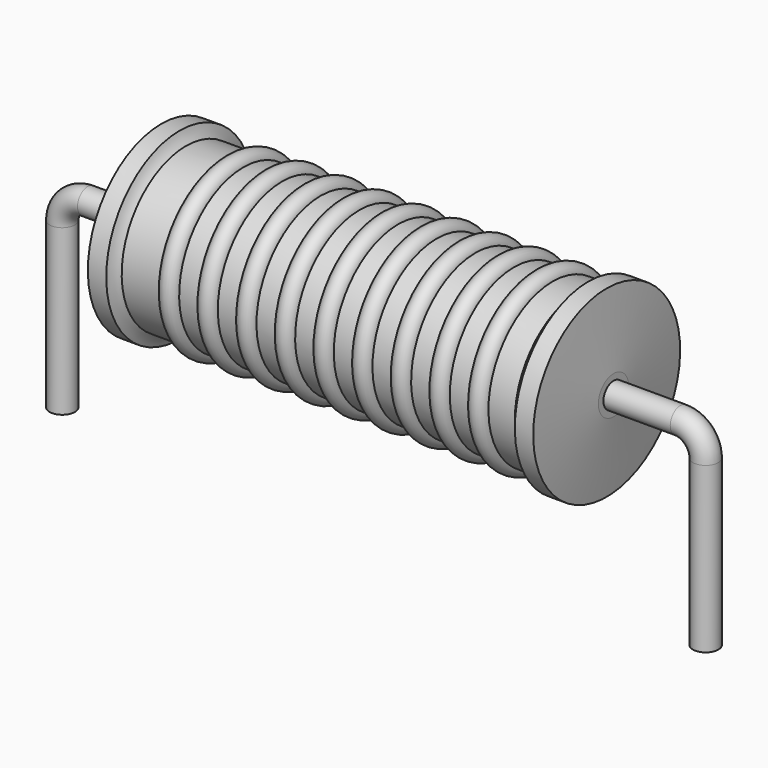
from build123d import *

# Parameters (mm, degrees)
SKETCH_R = 0.4


with BuildPart() as sweep_body:
    # Sweep: sweep along a path in Sketch001
    with BuildLine(Plane.XZ) as sweep_path:
        Line((0, -3), (0, 2.2))
        ThreePointArc((0, 2.2), (0.23431, 2.765681), (0.799987, 3))
        Line((0.799987, 3), (19.52, 3))
        ThreePointArc((19.52, 3), (20.085685, 2.765685), (20.32, 2.2))
        Line((20.32, 2.2), (20.32, -3))
    # Sketch → Sweep (sweep)
    with BuildSketch(Plane.XY.offset(-2)):
        Circle(SKETCH_R)
    sweep(path=sweep_path.line)


with BuildPart() as revolution:
    # Sketch002 → Revolution (revolve)
    with BuildSketch(Plane.XZ):
        with BuildLine():
            Line((3.1275, 5.9), (3.7075, 5.9))
            ThreePointArc((3.7075, 5.9), (3.786801, 5.70799), (3.9055, 5.5375))
            Line((3.9055, 5.5375), (16.3225, 5.5375))
            ThreePointArc((16.3225, 5.5375), (16.48618, 5.703806), (16.6125, 5.9))
            Line((16.6125, 5.9), (17.1925, 5.9))
            ThreePointArc((17.41, 3.6), (17.303281, 4.750192), (17.1925, 5.9))
            Line((17.41, 3), (17.41, 3.6))
            Line((2.91, 3), (17.41, 3))
            Line((2.91, 3), (2.91, 3.6))
            ThreePointArc((3.1275, 5.9), (3.016719, 4.750192), (2.91, 3.6))
        make_face()
    revolve(axis=Axis((2.91, 0, 3), (1, 0, 0)))


with BuildPart() as obj1:
    # Sketch003 → Revolution001 (revolve)
    with BuildSketch(Plane.XZ):
        with BuildLine():
            ThreePointArc((5.726053, 5.4795), (5.420789, 5.784763), (5.115526, 5.4795))
            Line((4.505, 5.4795), (5.115526, 5.4795))
            Line((4.505, 5.4795), (4.505, 4.8995))
            Line((4.505, 4.8995), (16.105, 4.8995))
            Line((16.105, 4.8995), (16.105, 5.4795))
            Line((15.494474, 5.4795), (16.105, 5.4795))
            ThreePointArc((15.494474, 5.4795), (15.189211, 5.784763), (14.883947, 5.4795))
            Line((14.273421, 5.4795), (14.883947, 5.4795))
            ThreePointArc((14.273421, 5.4795), (13.968158, 5.784763), (13.662895, 5.4795))
            Line((13.052368, 5.4795), (13.662895, 5.4795))
            ThreePointArc((13.052368, 5.4795), (12.747105, 5.784763), (12.441842, 5.4795))
            Line((11.831316, 5.4795), (12.441842, 5.4795))
            ThreePointArc((11.831316, 5.4795), (11.526053, 5.784763), (11.220789, 5.4795))
            Line((10.610263, 5.4795), (11.220789, 5.4795))
            ThreePointArc((10.610263, 5.4795), (10.305, 5.784763), (9.999737, 5.4795))
            Line((9.389211, 5.4795), (9.999737, 5.4795))
            ThreePointArc((9.389211, 5.4795), (9.083947, 5.784763), (8.778684, 5.4795))
            Line((8.168158, 5.4795), (8.778684, 5.4795))
            ThreePointArc((8.168158, 5.4795), (7.862895, 5.784763), (7.557632, 5.4795))
            Line((6.947105, 5.4795), (7.557632, 5.4795))
            ThreePointArc((6.947105, 5.4795), (6.641842, 5.784763), (6.336579, 5.4795))
            Line((5.726053, 5.4795), (6.336579, 5.4795))
        make_face()
    revolve(axis=Axis((3.2725, 0, 3), (1, 0, 0)))

    # obj1: union Sweep body, Revolution
    add(sweep_body.part)
    add(revolution.part)


solid = obj1.part
